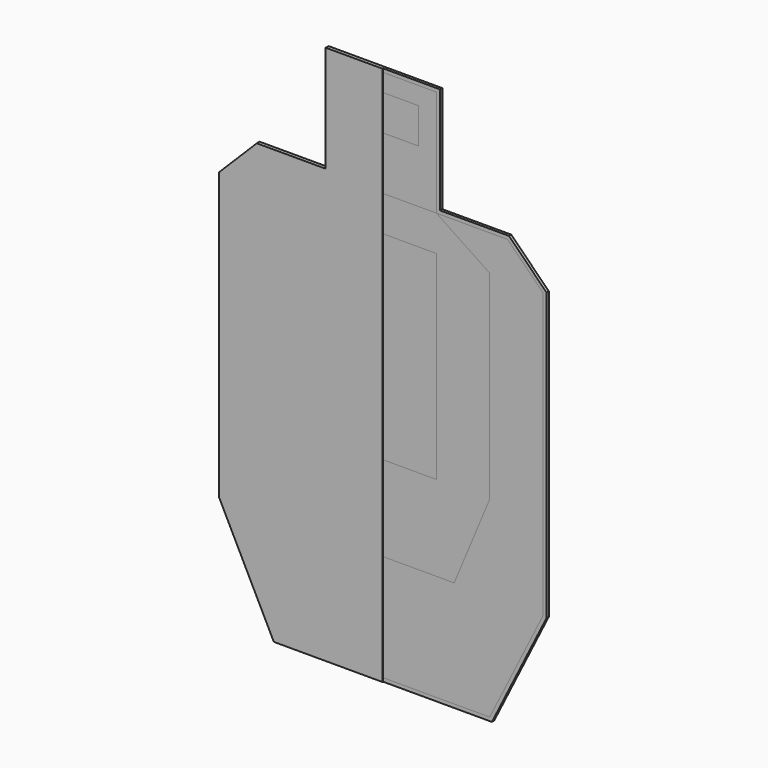
from build123d import *

# Parameters (mm, degrees)
F1_DEPTH  = 3
F2_W      = 150
F2_H      = 150
F3_DEPTH  = 3
F4_W      = 150
F4_H      = 280
F5_DEPTH  = 3
F6_W      = 150
F6_H      = 280
F7_DEPTH  = 3
F9_DEPTH  = 3
F11_DEPTH = 3
F13_DEPTH = 1
F15_DEPTH = 1
F17_DEPTH = 1


with BuildPart() as f1:
    # F0 (on Front) → F1 (new body)
    with BuildSketch(Plane.XZ):
        Polygon((50, 125), (0, 125), (-50, 125), (-50, 100), (-50, 75), (0, 75), (50, 75), (50, 100), align=None)
    extrude(amount=-F1_DEPTH)


with BuildPart() as f3:
    # F2 (on Front) → F3 (new body)
    with BuildSketch(Plane.XZ):
        with Locations((0, 75)):
            Rectangle(F2_W, F2_H)
        Polygon((-50, 125), (0, 125), (50, 125), (50, 100), (50, 75), (0, 75), (-50, 75), (-50, 100), align=None, mode=Mode.SUBTRACT)
    extrude(amount=-F3_DEPTH)


with BuildPart() as f5:
    # F4 (on Front) → F5 (new body)
    with BuildSketch(Plane.XZ):
        with Locations((0, -190)):
            Rectangle(F4_W, F4_H)
    extrude(amount=-F5_DEPTH)


with BuildPart() as f7:
    # F6 (on Front) → F7 (new body)
    with BuildSketch(Plane.XZ):
        Polygon((75, 0), (-75, 0), (-150, -50), (-150, -330), (-100, -450), (100, -450), (150, -330), (150, -50), align=None)
        with Locations((0, -190)):
            Rectangle(F6_W, F6_H, mode=Mode.SUBTRACT)
    extrude(amount=-F7_DEPTH)


with BuildPart() as f9:
    # F8 (on face) → F9 (new body)
    with BuildSketch(Plane.XZ):
        Polygon((175, 0), (75, 0), (150, -50), (150, -330), (100, -450), (-100, -450), (-150, -330), (-150, -50), (-75, 0), (-175, 0), (-225, -50), (-225, -450), (-150, -600), (150, -600), (225, -450), (225, -50), align=None)
    extrude(amount=-F9_DEPTH)


with BuildPart() as f11:
    # F10 (on face) → F11 (new body)
    with BuildSketch(Plane.XZ):
        Polygon((230, -47.928932), (177.071068, 5), (80, 5), (80, 155), (-80, 155), (-80, 5), (-177.071068, 5), (-230, -47.928932), (-230, -451.18034), (-153.09017, -605), (153.09017, -605), (230, -451.18034), align=None)
        Polygon((-75, 150), (75, 150), (75, 0), (175, 0), (225, -50), (225, -450), (150, -600), (-150, -600), (-225, -450), (-225, -50), (-175, 0), (-75, 0), align=None, mode=Mode.SUBTRACT)
    extrude(amount=-F11_DEPTH)


with BuildPart() as f13:
    # F12 (on face) → F13 (new body)
    with BuildSketch(Plane(origin=(0, 3, 0), x_dir=(-1, 0, 0), z_dir=(0, 1, 0))):
        Polygon((75, 0), (75, 150), (-75, 150), (-75, 0), (-175, 0), (-225, -50), (-225, -450), (-150, -600), (150, -600), (225, -450), (225, -50), (175, 0), align=None)
    extrude(amount=F13_DEPTH)


with BuildPart() as f15:
    # F14 (on face) → F15 (new body)
    with BuildSketch(Plane(origin=(0, 4, 0), x_dir=(-1, 0, 0), z_dir=(0, 1, 0))):
        Polygon((80, 155), (-80, 155), (-80, 5), (-177.071068, 5), (-230, -47.928932), (-230, -451.18034), (-153.09017, -605), (153.09017, -605), (230, -451.18034), (230, -47.928932), (177.071068, 5), (80, 5), align=None)
        Polygon((-75, 0), (-75, 150), (75, 150), (75, 0), (175, 0), (225, -50), (225, -450), (150, -600), (-150, -600), (-225, -450), (-225, -50), (-175, 0), align=None, mode=Mode.SUBTRACT)
    extrude(amount=-F15_DEPTH)


with BuildPart() as f17:
    # F16 (on face) → F17 (new body)
    with BuildSketch(Plane.XZ):
        Polygon((-153.09017, -605), (0, -605), (0, 155), (-80, 155), (-80, 5), (-177.071068, 5), (-230, -47.928932), (-230, -451.18034), align=None)
    extrude(amount=F17_DEPTH)


solid = Compound([f1.part, f3.part, f5.part, f7.part, f9.part, f11.part, f13.part, f15.part, f17.part])
